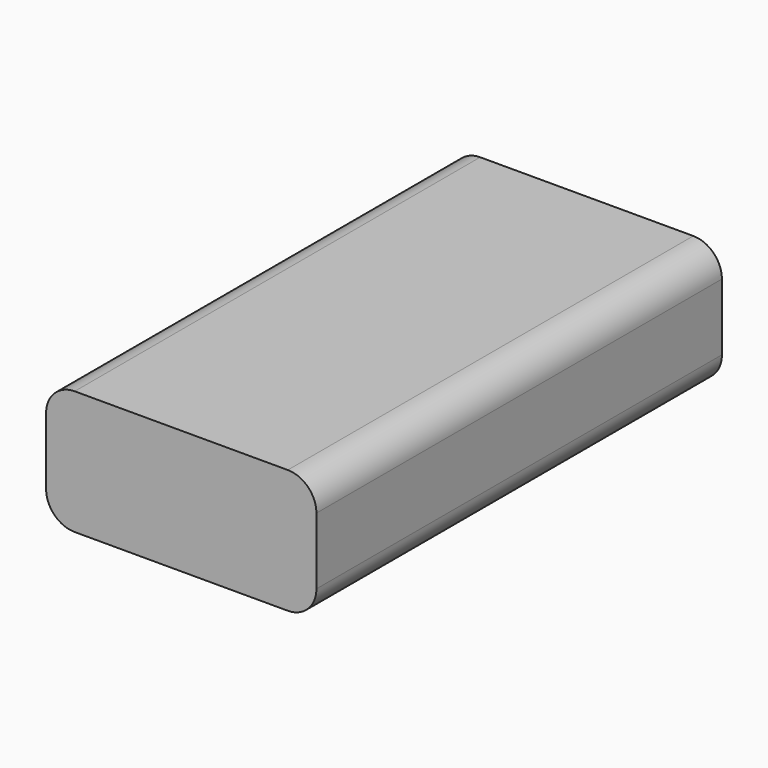
from build123d import *

# Parameters (mm, degrees)
F0_W     = 24
F0_H     = 11
F1_DEPTH = 22.5
F2_R     = 2.54
F3_W     = 12.7
F3_H     = 25.4
F4_DEPTH = 3.683


with BuildPart() as f1:
    # F0 (on Front) → F1 (new body, symmetric)
    with BuildSketch(Plane.XZ):
        Rectangle(F0_W, F0_H)
    extrude(amount=F1_DEPTH, both=True)

    # F2
    f2_edges = [f1.edges().sort_by_distance(p)[0] for p in [
        (-12, 0, 5.5),
        (-12, 0, -5.5),
        (12, 0, -5.5),
        (12, 0, 5.5),
    ]]
    fillet(f2_edges, radius=F2_R)

    # F3 (on Top) → F4 (cut, symmetric)
    with BuildSketch(Plane.XY):
        Rectangle(F3_W, F3_H)
    extrude(amount=F4_DEPTH, both=True, mode=Mode.SUBTRACT)


solid = f1.part
